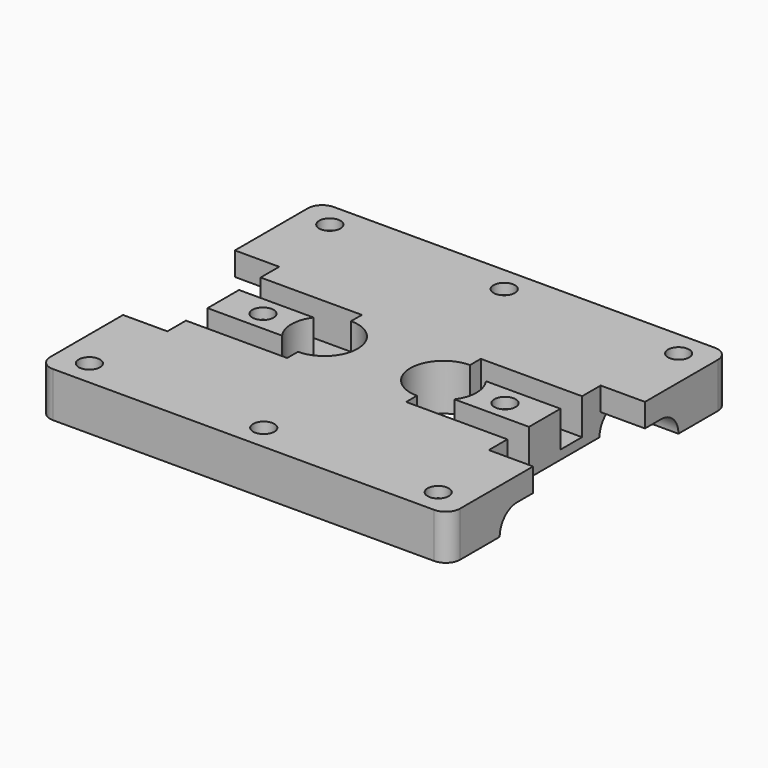
from build123d import *

# Parameters (mm, degrees)
ROD_P_R                                   = 6
ROD_P_DEPTH                               = 115.8
ROD_P_PITCH_ANGLE                         = 90
BEARING_0_R                               = 9.7
BEARING_0_DEPTH                           = 31.4
BEARING_0_PITCH_ANGLE                     = 90
BEARING_1_R                               = 9.7
BEARING_1_DEPTH                           = 31.4
BEARING_1_PITCH_ANGLE                     = 90
BEARING_2_R                               = 9.7
BEARING_2_DEPTH                           = 31.4
BEARING_2_PITCH_ANGLE                     = 90
BEARING_3_R                               = 9.7
BEARING_3_DEPTH                           = 31.4
BEARING_3_PITCH_ANGLE                     = 90
OBJ1_R                        = 9.2
OBJ1_DEPTH                    = 15.3
OBJ2_R                        = 9.2
OBJ2_DEPTH                    = 15.3
M3_BOLT_HOLE_NUT_DEPTH                    = 3.8
M3_BOLT_HOLE_BOLT_HEAD_R                  = 2.95
M3_BOLT_HOLE_BOLT_HEAD_DEPTH              = 4
M3_BOLT_HOLE_BOLT_SUP1AWAY_R              = 2.95
M3_BOLT_HOLE_BOLT_SUP1AWAY_DEPTH          = 3.3
M3_BOLT_HOLE_BOLT_SUP1_DEPTH              = 3.3
M3_BOLT_HOLE_BOLT_SUP1_PLACEMENT_ANGLE    = 30
M3_BOLT_HOLE_BOLT_SUP2_DEPTH              = 3.6
M3_BOLT_HOLE_BOLT_SHANK_R                 = 1.7
M3_BOLT_HOLE_BOLT_SHANK_DEPTH             = 27
M3_BOLT_HOLE_NUT001_DEPTH                 = 3.8
M3_BOLT_HOLE_BOLT_HEAD001_R               = 2.95
M3_BOLT_HOLE_BOLT_HEAD001_DEPTH           = 4
M3_BOLT_HOLE_BOLT_SUP1AWAY001_R           = 2.95
M3_BOLT_HOLE_BOLT_SUP1AWAY001_DEPTH       = 3.3
M3_BOLT_HOLE_BOLT_SUP1001_DEPTH           = 3.3
M3_BOLT_HOLE_BOLT_SUP1001_PLACEMENT_ANGLE = 30
M3_BOLT_HOLE_BOLT_SUP2001_DEPTH           = 3.6
M3_BOLT_HOLE_BOLT_SHANK001_R              = 1.7
M3_BOLT_HOLE_BOLT_SHANK001_DEPTH          = 27
M3_BOLT_HOLE_NUT002_DEPTH                 = 3.8
OBJ3_DEPTH            = 3.1
OBJ4                = 3.1
OBJ5      = 30
OBJ6_DEPTH                = 3.4
M3_BOLT_HOLE_BOLT_HEAD002_R               = 2.95
M3_BOLT_HOLE_BOLT_HEAD002_DEPTH           = 4
M3_BOLT_HOLE_BOLT_SUP1AWAY002_R           = 2.95
M3_BOLT_HOLE_BOLT_SUP1AWAY002_DEPTH       = 3.3
M3_BOLT_HOLE_BOLT_SUP1002_DEPTH           = 3.3
M3_BOLT_HOLE_BOLT_SUP1002_PLACEMENT_ANGLE = 30
M3_BOLT_HOLE_BOLT_SUP2002_DEPTH           = 3.6
M3_BOLT_HOLE_BOLT_SHANK002_R              = 1.7
M3_BOLT_HOLE_BOLT_SHANK002_DEPTH          = 27
M3_BOLT_HOLE_NUT003_DEPTH                 = 3.8
OBJ7_DEPTH         = 3.1
OBJ8             = 3.1
OBJ9   = 30
OBJ10_DEPTH             = 3.4
M3_BOLT_HOLE_BOLT_HEAD003_R               = 2.95
M3_BOLT_HOLE_BOLT_HEAD003_DEPTH           = 4
M3_BOLT_HOLE_BOLT_SUP1AWAY003_R           = 2.95
M3_BOLT_HOLE_BOLT_SUP1AWAY003_DEPTH       = 3.3
M3_BOLT_HOLE_BOLT_SUP1003_DEPTH           = 3.3
M3_BOLT_HOLE_BOLT_SUP1003_PLACEMENT_ANGLE = 30
M3_BOLT_HOLE_BOLT_SUP2003_DEPTH           = 3.6
M3_BOLT_HOLE_BOLT_SHANK003_R              = 1.7
M3_BOLT_HOLE_BOLT_SHANK003_DEPTH          = 27
M3_BOLT_HOLE_NUT004_DEPTH                 = 3.8
OBJ11_DEPTH         = 3.1
OBJ12             = 3.1
OBJ13   = 30
OBJ14_DEPTH             = 3.4
M3_BOLT_HOLE_BOLT_HEAD004_R               = 2.95
M3_BOLT_HOLE_BOLT_HEAD004_DEPTH           = 4
M3_BOLT_HOLE_BOLT_SUP1AWAY004_R           = 2.95
M3_BOLT_HOLE_BOLT_SUP1AWAY004_DEPTH       = 3.3
M3_BOLT_HOLE_BOLT_SUP1004_DEPTH           = 3.3
M3_BOLT_HOLE_BOLT_SUP1004_PLACEMENT_ANGLE = 30
M3_BOLT_HOLE_BOLT_SUP2004_DEPTH           = 3.6
M3_BOLT_HOLE_BOLT_SHANK004_R              = 1.7
M3_BOLT_HOLE_BOLT_SHANK004_DEPTH          = 27
M3_BOLT_HOLE_NUT005_DEPTH                 = 3.8
OBJ15_DEPTH         = 3.1
OBJ16             = 3.1
OBJ17   = 30
OBJ18_DEPTH             = 3.4
M3_BOLT_HOLE_BOLT_HEAD005_R               = 2.95
M3_BOLT_HOLE_BOLT_HEAD005_DEPTH           = 4
M3_BOLT_HOLE_BOLT_SUP1AWAY005_R           = 2.95
M3_BOLT_HOLE_BOLT_SUP1AWAY005_DEPTH       = 3.3
M3_BOLT_HOLE_BOLT_SUP1005_DEPTH           = 3.3
M3_BOLT_HOLE_BOLT_SUP1005_PLACEMENT_ANGLE = 30
M3_BOLT_HOLE_BOLT_SUP2005_DEPTH           = 3.6
M3_BOLT_HOLE_BOLT_SHANK005_R              = 1.7
M3_BOLT_HOLE_BOLT_SHANK005_DEPTH          = 27
M3_BOLT_HOLE_NUT006_DEPTH                 = 3.8
OBJ19_DEPTH         = 3.1
OBJ20             = 3.1
OBJ21   = 30
OBJ22_DEPTH             = 3.4
M3_BOLT_HOLE_BOLT_HEAD006_R               = 2.95
M3_BOLT_HOLE_BOLT_HEAD006_DEPTH           = 4
M3_BOLT_HOLE_BOLT_SUP1AWAY006_R           = 2.95
M3_BOLT_HOLE_BOLT_SUP1AWAY006_DEPTH       = 3.3
M3_BOLT_HOLE_BOLT_SUP1006_DEPTH           = 3.3
M3_BOLT_HOLE_BOLT_SUP1006_PLACEMENT_ANGLE = 30
M3_BOLT_HOLE_BOLT_SUP2006_DEPTH           = 3.6
M3_BOLT_HOLE_BOLT_SHANK006_R              = 1.7
M3_BOLT_HOLE_BOLT_SHANK006_DEPTH          = 27
M3_BOLT_HOLE_NUT007_DEPTH                 = 3.8
OBJ23_DEPTH         = 3.1
OBJ24             = 3.1
OBJ25   = 30
OBJ26_DEPTH             = 3.4
M3_BOLT_HOLE_BOLT_HEAD007_R               = 2.95
M3_BOLT_HOLE_BOLT_HEAD007_DEPTH           = 4
M3_BOLT_HOLE_BOLT_SUP1AWAY007_R           = 2.95
M3_BOLT_HOLE_BOLT_SUP1AWAY007_DEPTH       = 3.3
M3_BOLT_HOLE_BOLT_SUP1007_DEPTH           = 3.3
M3_BOLT_HOLE_BOLT_SUP1007_PLACEMENT_ANGLE = 30
M3_BOLT_HOLE_BOLT_SUP2007_DEPTH           = 3.6
M3_BOLT_HOLE_BOLT_SHANK007_R              = 1.7
M3_BOLT_HOLE_BOLT_SHANK007_DEPTH          = 27
OBJ27_W                       = 41
OBJ27_H                       = 50
OBJ27_DEPTH                   = 6
OBJ28                             = 41
OBJ29                             = 38.8
OBJ30                         = 25
CLONE_PLACEMENT_ANGLE                     = 180
OBJ31_W                    = 29.1
OBJ31_H                    = 7.5
OBJ31_DEPTH                = 11
OBJ32                    = 29.1
OBJ33                    = 7.5
OBJ34                = 11
CLONE001_PLACEMENT_ANGLE                  = 180
ROD_N_R                                   = 6
ROD_N_DEPTH                               = 115.8
ROD_N_PITCH_ANGLE                         = 90
OBJ35_W                         = 79
OBJ35_H                         = 23.6
OBJ35_DEPTH                     = 1.4
OBJ36                              = 113.8
OBJ37                              = 97.4
OBJ38                          = 12.5
OBJ39                         = 4


with BuildPart() as rod_p:
    # rod_p → rod_p (new body)
    with BuildSketch(Plane.XY):
        Circle(ROD_P_R)
    extrude(amount=ROD_P_DEPTH)


with BuildPart() as rod_p_1:
    # rod_p pitch: moved
    add(rod_p.part.rotate(Axis((0, 0, 0), (0, 1, 0)), ROD_P_PITCH_ANGLE))


with BuildPart() as rod_p_2:
    # rod_p placement: moved
    add(rod_p_1.part.moved(Location((-57.9, 25, 12.5))))


with BuildPart() as bearing_0_body:
    # bearing_0 → bearing_0 (new body)
    with BuildSketch(Plane.XY):
        Circle(BEARING_0_R)
    extrude(amount=BEARING_0_DEPTH)


with BuildPart() as bearing_0_body_1:
    # bearing_0 pitch: moved
    add(bearing_0_body.part.rotate(Axis((0, 0, 0), (0, 1, 0)), BEARING_0_PITCH_ANGLE))


with BuildPart() as bearing_0_body_2:
    # bearing_0 placement: moved
    add(bearing_0_body_1.part.moved(Location((8.5, 25, 12.5))))


with BuildPart() as bearing_1_body:
    # bearing_1 → bearing_1 (new body)
    with BuildSketch(Plane.XY):
        Circle(BEARING_1_R)
    extrude(amount=BEARING_1_DEPTH)


with BuildPart() as bearing_1_body_1:
    # bearing_1 pitch: moved
    add(bearing_1_body.part.rotate(Axis((0, 0, 0), (0, 1, 0)), BEARING_1_PITCH_ANGLE))


with BuildPart() as bearing_1_body_2:
    # bearing_1 placement: moved
    add(bearing_1_body_1.part.moved(Location((-39.9, 25, 12.5))))


with BuildPart() as bearing_2_body:
    # bearing_2 → bearing_2 (new body)
    with BuildSketch(Plane.XY):
        Circle(BEARING_2_R)
    extrude(amount=BEARING_2_DEPTH)


with BuildPart() as bearing_2_body_1:
    # bearing_2 pitch: moved
    add(bearing_2_body.part.rotate(Axis((0, 0, 0), (0, 1, 0)), BEARING_2_PITCH_ANGLE))


with BuildPart() as bearing_2_body_2:
    # bearing_2 placement: moved
    add(bearing_2_body_1.part.moved(Location((8.5, -25, 12.5))))


with BuildPart() as bearing_3_body:
    # bearing_3 → bearing_3 (new body)
    with BuildSketch(Plane.XY):
        Circle(BEARING_3_R)
    extrude(amount=BEARING_3_DEPTH)


with BuildPart() as bearing_3_body_1:
    # bearing_3 pitch: moved
    add(bearing_3_body.part.rotate(Axis((0, 0, 0), (0, 1, 0)), BEARING_3_PITCH_ANGLE))


with BuildPart() as bearing_3_body_2:
    # bearing_3 placement: moved
    add(bearing_3_body_1.part.moved(Location((-39.9, -25, 12.5))))


with BuildPart() as obj1:
    # obj1 → obj1 (new body)
    with BuildSketch(Plane(origin=(16.5, 0, 10.7), x_dir=(1, 0, 0), z_dir=(0, 0, 1))):
        Circle(OBJ1_R)
    extrude(amount=OBJ1_DEPTH)


with BuildPart() as obj2:
    # obj2 → obj2 (new body)
    with BuildSketch(Plane(origin=(-16.5, 0, 10.7), x_dir=(1, 0, 0), z_dir=(0, 0, 1))):
        Circle(OBJ2_R)
    extrude(amount=OBJ2_DEPTH)


with BuildPart() as m3_bolt_hole_nut:
    # m3_bolt_hole_nut → m3_bolt_hole_nut (new body)
    with BuildSketch(Plane.XY.offset(-1)):
        Polygon((3.605, 0), (1.8025, 3.122022), (-1.8025, 3.122022), (-3.605, 0), (-1.8025, -3.122022), (1.8025, -3.122022), align=None)
    extrude(amount=M3_BOLT_HOLE_NUT_DEPTH)


with BuildPart() as m3_bolt_hole_bolt_head:
    # m3_bolt_hole_bolt_head → m3_bolt_hole_bolt_head (new body)
    with BuildSketch(Plane.XY.offset(22)):
        Circle(M3_BOLT_HOLE_BOLT_HEAD_R)
    extrude(amount=M3_BOLT_HOLE_BOLT_HEAD_DEPTH)


with BuildPart() as m3_bolt_hole_bolt_sup1away:
    # m3_bolt_hole_bolt_sup1away → m3_bolt_hole_bolt_sup1away (new body)
    with BuildSketch(Plane.XY.offset(21.7)):
        Circle(M3_BOLT_HOLE_BOLT_SUP1AWAY_R)
    extrude(amount=M3_BOLT_HOLE_BOLT_SUP1AWAY_DEPTH)


with BuildPart() as sup1cut001:
    # m3_bolt_hole_bolt_sup1 → m3_bolt_hole_bolt_sup1 (new body)
    with BuildSketch(Plane.XY):
        Polygon((3.4, 0), (-1.7, 2.944486), (-1.7, -2.944486), align=None)
    extrude(amount=M3_BOLT_HOLE_BOLT_SUP1_DEPTH)


with BuildPart() as sup1cut001_1:
    # m3_bolt_hole_bolt_sup1 placement: moved
    add(sup1cut001.part.moved(Location((0, 0, 21.7))).rotate(Axis((0, 0, 21.7), (0, 0, 1)), M3_BOLT_HOLE_BOLT_SUP1_PLACEMENT_ANGLE))

    # sup1cut001: intersect m3_bolt_hole_bolt_sup1away
    add(m3_bolt_hole_bolt_sup1away.part, mode=Mode.INTERSECT)


with BuildPart() as m3_bolt_hole_bolt_sup2:
    # m3_bolt_hole_bolt_sup2 → m3_bolt_hole_bolt_sup2 (new body)
    with BuildSketch(Plane.XY.offset(21.4)):
        Polygon((1.955, 0), (0.9775, 1.69308), (-0.9775, 1.69308), (-1.955, 0), (-0.9775, -1.69308), (0.9775, -1.69308), align=None)
    extrude(amount=M3_BOLT_HOLE_BOLT_SUP2_DEPTH)


with BuildPart() as boltnut001:
    # m3_bolt_hole_bolt_shank → m3_bolt_hole_bolt_shank (new body)
    with BuildSketch(Plane.XY.offset(-1)):
        Circle(M3_BOLT_HOLE_BOLT_SHANK_R)
    extrude(amount=M3_BOLT_HOLE_BOLT_SHANK_DEPTH)

    # m3_bolt_hole_bolt: union m3_bolt_hole_bolt_head, sup1cut001, m3_bolt_hole_bolt_sup2
    add(m3_bolt_hole_bolt_head.part)
    add(sup1cut001_1.part)
    add(m3_bolt_hole_bolt_sup2.part)

    # boltnut001: union m3_bolt_hole_nut
    add(m3_bolt_hole_nut.part)


with BuildPart() as boltnut001_1:
    # boltnut001 placement: moved
    add(boltnut001.part.moved(Location((33.58, 0, 0))))


with BuildPart() as m3_bolt_hole_nut001:
    # m3_bolt_hole_nut001 → m3_bolt_hole_nut001 (new body)
    with BuildSketch(Plane.XY.offset(-1)):
        Polygon((3.605, 0), (1.8025, 3.122022), (-1.8025, 3.122022), (-3.605, 0), (-1.8025, -3.122022), (1.8025, -3.122022), align=None)
    extrude(amount=M3_BOLT_HOLE_NUT001_DEPTH)


with BuildPart() as m3_bolt_hole_bolt_head001:
    # m3_bolt_hole_bolt_head001 → m3_bolt_hole_bolt_head001 (new body)
    with BuildSketch(Plane.XY.offset(22)):
        Circle(M3_BOLT_HOLE_BOLT_HEAD001_R)
    extrude(amount=M3_BOLT_HOLE_BOLT_HEAD001_DEPTH)


with BuildPart() as m3_bolt_hole_bolt_sup1away001:
    # m3_bolt_hole_bolt_sup1away001 → m3_bolt_hole_bolt_sup1away001 (new body)
    with BuildSketch(Plane.XY.offset(21.7)):
        Circle(M3_BOLT_HOLE_BOLT_SUP1AWAY001_R)
    extrude(amount=M3_BOLT_HOLE_BOLT_SUP1AWAY001_DEPTH)


with BuildPart() as sup1cut002:
    # m3_bolt_hole_bolt_sup1001 → m3_bolt_hole_bolt_sup1001 (new body)
    with BuildSketch(Plane.XY):
        Polygon((3.4, 0), (-1.7, 2.944486), (-1.7, -2.944486), align=None)
    extrude(amount=M3_BOLT_HOLE_BOLT_SUP1001_DEPTH)


with BuildPart() as sup1cut002_1:
    # m3_bolt_hole_bolt_sup1001 placement: moved
    add(sup1cut002.part.moved(Location((0, 0, 21.7))).rotate(Axis((0, 0, 21.7), (0, 0, 1)), M3_BOLT_HOLE_BOLT_SUP1001_PLACEMENT_ANGLE))

    # sup1cut002: intersect m3_bolt_hole_bolt_sup1away001
    add(m3_bolt_hole_bolt_sup1away001.part, mode=Mode.INTERSECT)


with BuildPart() as m3_bolt_hole_bolt_sup2001:
    # m3_bolt_hole_bolt_sup2001 → m3_bolt_hole_bolt_sup2001 (new body)
    with BuildSketch(Plane.XY.offset(21.4)):
        Polygon((1.955, 0), (0.9775, 1.69308), (-0.9775, 1.69308), (-1.955, 0), (-0.9775, -1.69308), (0.9775, -1.69308), align=None)
    extrude(amount=M3_BOLT_HOLE_BOLT_SUP2001_DEPTH)


with BuildPart() as boltnut002:
    # m3_bolt_hole_bolt_shank001 → m3_bolt_hole_bolt_shank001 (new body)
    with BuildSketch(Plane.XY.offset(-1)):
        Circle(M3_BOLT_HOLE_BOLT_SHANK001_R)
    extrude(amount=M3_BOLT_HOLE_BOLT_SHANK001_DEPTH)

    # m3_bolt_hole_bolt001: union m3_bolt_hole_bolt_head001, sup1cut002, m3_bolt_hole_bolt_sup2001
    add(m3_bolt_hole_bolt_head001.part)
    add(sup1cut002_1.part)
    add(m3_bolt_hole_bolt_sup2001.part)

    # boltnut002: union m3_bolt_hole_nut001
    add(m3_bolt_hole_nut001.part)


with BuildPart() as boltnut002_1:
    # boltnut002 placement: moved
    add(boltnut002.part.moved(Location((-33.58, 0, 0))))


with BuildPart() as m3_bolt_hole_nut002:
    # m3_bolt_hole_nut002 → m3_bolt_hole_nut002 (new body)
    with BuildSketch(Plane.XY.offset(-1)):
        Polygon((3.605, 0), (1.8025, 3.122022), (-1.8025, 3.122022), (-3.605, 0), (-1.8025, -3.122022), (1.8025, -3.122022), align=None)
    extrude(amount=M3_BOLT_HOLE_NUT002_DEPTH)


with BuildPart() as obj3:
    # obj3 → obj3 (new body)
    with BuildSketch(Plane.XY):
        Polygon((3.605, 0), (1.8025, 3.122022), (-1.8025, 3.122022), (-3.605, 0), (-1.8025, -3.122022), (1.8025, -3.122022), align=None)
    extrude(amount=OBJ3_DEPTH)


with BuildPart() as obj40:
    with BuildSketch(Plane.XY):
        Polygon((3.4, 0), (-1.7, 2.944486), (-1.7, -2.944486), align=None)
    extrude(amount=OBJ4)


with BuildPart() as obj40_1:
    add(obj40.part.rotate(Axis((0, 0, 0), (0, 0, 1)), OBJ5))

    # obj40: intersect obj3
    add(obj3.part, mode=Mode.INTERSECT)


with BuildPart() as obj6:
    # obj6 → obj6 (new body)
    with BuildSketch(Plane.XY):
        Polygon((1.955, 0), (0.9775, 1.69308), (-0.9775, 1.69308), (-1.955, 0), (-0.9775, -1.69308), (0.9775, -1.69308), align=None)
    extrude(amount=OBJ6_DEPTH)


with BuildPart() as m3_bolt_hole_bolt_head002:
    # m3_bolt_hole_bolt_head002 → m3_bolt_hole_bolt_head002 (new body)
    with BuildSketch(Plane.XY.offset(22)):
        Circle(M3_BOLT_HOLE_BOLT_HEAD002_R)
    extrude(amount=M3_BOLT_HOLE_BOLT_HEAD002_DEPTH)


with BuildPart() as m3_bolt_hole_bolt_sup1away002:
    # m3_bolt_hole_bolt_sup1away002 → m3_bolt_hole_bolt_sup1away002 (new body)
    with BuildSketch(Plane.XY.offset(21.7)):
        Circle(M3_BOLT_HOLE_BOLT_SUP1AWAY002_R)
    extrude(amount=M3_BOLT_HOLE_BOLT_SUP1AWAY002_DEPTH)


with BuildPart() as sup1cut003:
    # m3_bolt_hole_bolt_sup1002 → m3_bolt_hole_bolt_sup1002 (new body)
    with BuildSketch(Plane.XY):
        Polygon((3.4, 0), (-1.7, 2.944486), (-1.7, -2.944486), align=None)
    extrude(amount=M3_BOLT_HOLE_BOLT_SUP1002_DEPTH)


with BuildPart() as sup1cut003_1:
    # m3_bolt_hole_bolt_sup1002 placement: moved
    add(sup1cut003.part.moved(Location((0, 0, 21.7))).rotate(Axis((0, 0, 21.7), (0, 0, 1)), M3_BOLT_HOLE_BOLT_SUP1002_PLACEMENT_ANGLE))

    # sup1cut003: intersect m3_bolt_hole_bolt_sup1away002
    add(m3_bolt_hole_bolt_sup1away002.part, mode=Mode.INTERSECT)


with BuildPart() as m3_bolt_hole_bolt_sup2002:
    # m3_bolt_hole_bolt_sup2002 → m3_bolt_hole_bolt_sup2002 (new body)
    with BuildSketch(Plane.XY.offset(21.4)):
        Polygon((1.955, 0), (0.9775, 1.69308), (-0.9775, 1.69308), (-1.955, 0), (-0.9775, -1.69308), (0.9775, -1.69308), align=None)
    extrude(amount=M3_BOLT_HOLE_BOLT_SUP2002_DEPTH)


with BuildPart() as boltnut003:
    # m3_bolt_hole_bolt_shank002 → m3_bolt_hole_bolt_shank002 (new body)
    with BuildSketch(Plane.XY.offset(-1)):
        Circle(M3_BOLT_HOLE_BOLT_SHANK002_R)
    extrude(amount=M3_BOLT_HOLE_BOLT_SHANK002_DEPTH)

    # m3_bolt_hole_bolt002: union m3_bolt_hole_bolt_head002, sup1cut003, m3_bolt_hole_bolt_sup2002
    add(m3_bolt_hole_bolt_head002.part)
    add(sup1cut003_1.part)
    add(m3_bolt_hole_bolt_sup2002.part)

    # boltnut003: union m3_bolt_hole_nut002, obj40, obj6
    add(m3_bolt_hole_nut002.part)
    add(obj40_1.part)
    add(obj6.part)


with BuildPart() as boltnut003_1:
    # boltnut003 placement: moved
    add(boltnut003.part.moved(Location((48.4, 41.7, 0))))


with BuildPart() as m3_bolt_hole_nut003:
    # m3_bolt_hole_nut003 → m3_bolt_hole_nut003 (new body)
    with BuildSketch(Plane.XY.offset(-1)):
        Polygon((3.605, 0), (1.8025, 3.122022), (-1.8025, 3.122022), (-3.605, 0), (-1.8025, -3.122022), (1.8025, -3.122022), align=None)
    extrude(amount=M3_BOLT_HOLE_NUT003_DEPTH)


with BuildPart() as obj7:
    # obj7 → obj7 (new body)
    with BuildSketch(Plane.XY):
        Polygon((3.605, 0), (1.8025, 3.122022), (-1.8025, 3.122022), (-3.605, 0), (-1.8025, -3.122022), (1.8025, -3.122022), align=None)
    extrude(amount=OBJ7_DEPTH)


with BuildPart() as obj41:
    with BuildSketch(Plane.XY):
        Polygon((3.4, 0), (-1.7, 2.944486), (-1.7, -2.944486), align=None)
    extrude(amount=OBJ8)


with BuildPart() as obj41_1:
    add(obj41.part.rotate(Axis((0, 0, 0), (0, 0, 1)), OBJ9))

    # obj41: intersect obj7
    add(obj7.part, mode=Mode.INTERSECT)


with BuildPart() as obj10:
    # obj10 → obj10 (new body)
    with BuildSketch(Plane.XY):
        Polygon((1.955, 0), (0.9775, 1.69308), (-0.9775, 1.69308), (-1.955, 0), (-0.9775, -1.69308), (0.9775, -1.69308), align=None)
    extrude(amount=OBJ10_DEPTH)


with BuildPart() as m3_bolt_hole_bolt_head003:
    # m3_bolt_hole_bolt_head003 → m3_bolt_hole_bolt_head003 (new body)
    with BuildSketch(Plane.XY.offset(22)):
        Circle(M3_BOLT_HOLE_BOLT_HEAD003_R)
    extrude(amount=M3_BOLT_HOLE_BOLT_HEAD003_DEPTH)


with BuildPart() as m3_bolt_hole_bolt_sup1away003:
    # m3_bolt_hole_bolt_sup1away003 → m3_bolt_hole_bolt_sup1away003 (new body)
    with BuildSketch(Plane.XY.offset(21.7)):
        Circle(M3_BOLT_HOLE_BOLT_SUP1AWAY003_R)
    extrude(amount=M3_BOLT_HOLE_BOLT_SUP1AWAY003_DEPTH)


with BuildPart() as sup1cut004:
    # m3_bolt_hole_bolt_sup1003 → m3_bolt_hole_bolt_sup1003 (new body)
    with BuildSketch(Plane.XY):
        Polygon((3.4, 0), (-1.7, 2.944486), (-1.7, -2.944486), align=None)
    extrude(amount=M3_BOLT_HOLE_BOLT_SUP1003_DEPTH)


with BuildPart() as sup1cut004_1:
    # m3_bolt_hole_bolt_sup1003 placement: moved
    add(sup1cut004.part.moved(Location((0, 0, 21.7))).rotate(Axis((0, 0, 21.7), (0, 0, 1)), M3_BOLT_HOLE_BOLT_SUP1003_PLACEMENT_ANGLE))

    # sup1cut004: intersect m3_bolt_hole_bolt_sup1away003
    add(m3_bolt_hole_bolt_sup1away003.part, mode=Mode.INTERSECT)


with BuildPart() as m3_bolt_hole_bolt_sup2003:
    # m3_bolt_hole_bolt_sup2003 → m3_bolt_hole_bolt_sup2003 (new body)
    with BuildSketch(Plane.XY.offset(21.4)):
        Polygon((1.955, 0), (0.9775, 1.69308), (-0.9775, 1.69308), (-1.955, 0), (-0.9775, -1.69308), (0.9775, -1.69308), align=None)
    extrude(amount=M3_BOLT_HOLE_BOLT_SUP2003_DEPTH)


with BuildPart() as boltnut004:
    # m3_bolt_hole_bolt_shank003 → m3_bolt_hole_bolt_shank003 (new body)
    with BuildSketch(Plane.XY.offset(-1)):
        Circle(M3_BOLT_HOLE_BOLT_SHANK003_R)
    extrude(amount=M3_BOLT_HOLE_BOLT_SHANK003_DEPTH)

    # m3_bolt_hole_bolt003: union m3_bolt_hole_bolt_head003, sup1cut004, m3_bolt_hole_bolt_sup2003
    add(m3_bolt_hole_bolt_head003.part)
    add(sup1cut004_1.part)
    add(m3_bolt_hole_bolt_sup2003.part)

    # boltnut004: union m3_bolt_hole_nut003, obj41, obj10
    add(m3_bolt_hole_nut003.part)
    add(obj41_1.part)
    add(obj10.part)


with BuildPart() as boltnut004_1:
    # boltnut004 placement: moved
    add(boltnut004.part.moved(Location((0, 41.7, 0))))


with BuildPart() as m3_bolt_hole_nut004:
    # m3_bolt_hole_nut004 → m3_bolt_hole_nut004 (new body)
    with BuildSketch(Plane.XY.offset(-1)):
        Polygon((3.605, 0), (1.8025, 3.122022), (-1.8025, 3.122022), (-3.605, 0), (-1.8025, -3.122022), (1.8025, -3.122022), align=None)
    extrude(amount=M3_BOLT_HOLE_NUT004_DEPTH)


with BuildPart() as obj11:
    # obj11 → obj11 (new body)
    with BuildSketch(Plane.XY):
        Polygon((3.605, 0), (1.8025, 3.122022), (-1.8025, 3.122022), (-3.605, 0), (-1.8025, -3.122022), (1.8025, -3.122022), align=None)
    extrude(amount=OBJ11_DEPTH)


with BuildPart() as obj42:
    with BuildSketch(Plane.XY):
        Polygon((3.4, 0), (-1.7, 2.944486), (-1.7, -2.944486), align=None)
    extrude(amount=OBJ12)


with BuildPart() as obj42_1:
    add(obj42.part.rotate(Axis((0, 0, 0), (0, 0, 1)), OBJ13))

    # obj42: intersect obj11
    add(obj11.part, mode=Mode.INTERSECT)


with BuildPart() as obj14:
    # obj14 → obj14 (new body)
    with BuildSketch(Plane.XY):
        Polygon((1.955, 0), (0.9775, 1.69308), (-0.9775, 1.69308), (-1.955, 0), (-0.9775, -1.69308), (0.9775, -1.69308), align=None)
    extrude(amount=OBJ14_DEPTH)


with BuildPart() as m3_bolt_hole_bolt_head004:
    # m3_bolt_hole_bolt_head004 → m3_bolt_hole_bolt_head004 (new body)
    with BuildSketch(Plane.XY.offset(22)):
        Circle(M3_BOLT_HOLE_BOLT_HEAD004_R)
    extrude(amount=M3_BOLT_HOLE_BOLT_HEAD004_DEPTH)


with BuildPart() as m3_bolt_hole_bolt_sup1away004:
    # m3_bolt_hole_bolt_sup1away004 → m3_bolt_hole_bolt_sup1away004 (new body)
    with BuildSketch(Plane.XY.offset(21.7)):
        Circle(M3_BOLT_HOLE_BOLT_SUP1AWAY004_R)
    extrude(amount=M3_BOLT_HOLE_BOLT_SUP1AWAY004_DEPTH)


with BuildPart() as sup1cut005:
    # m3_bolt_hole_bolt_sup1004 → m3_bolt_hole_bolt_sup1004 (new body)
    with BuildSketch(Plane.XY):
        Polygon((3.4, 0), (-1.7, 2.944486), (-1.7, -2.944486), align=None)
    extrude(amount=M3_BOLT_HOLE_BOLT_SUP1004_DEPTH)


with BuildPart() as sup1cut005_1:
    # m3_bolt_hole_bolt_sup1004 placement: moved
    add(sup1cut005.part.moved(Location((0, 0, 21.7))).rotate(Axis((0, 0, 21.7), (0, 0, 1)), M3_BOLT_HOLE_BOLT_SUP1004_PLACEMENT_ANGLE))

    # sup1cut005: intersect m3_bolt_hole_bolt_sup1away004
    add(m3_bolt_hole_bolt_sup1away004.part, mode=Mode.INTERSECT)


with BuildPart() as m3_bolt_hole_bolt_sup2004:
    # m3_bolt_hole_bolt_sup2004 → m3_bolt_hole_bolt_sup2004 (new body)
    with BuildSketch(Plane.XY.offset(21.4)):
        Polygon((1.955, 0), (0.9775, 1.69308), (-0.9775, 1.69308), (-1.955, 0), (-0.9775, -1.69308), (0.9775, -1.69308), align=None)
    extrude(amount=M3_BOLT_HOLE_BOLT_SUP2004_DEPTH)


with BuildPart() as boltnut005:
    # m3_bolt_hole_bolt_shank004 → m3_bolt_hole_bolt_shank004 (new body)
    with BuildSketch(Plane.XY.offset(-1)):
        Circle(M3_BOLT_HOLE_BOLT_SHANK004_R)
    extrude(amount=M3_BOLT_HOLE_BOLT_SHANK004_DEPTH)

    # m3_bolt_hole_bolt004: union m3_bolt_hole_bolt_head004, sup1cut005, m3_bolt_hole_bolt_sup2004
    add(m3_bolt_hole_bolt_head004.part)
    add(sup1cut005_1.part)
    add(m3_bolt_hole_bolt_sup2004.part)

    # boltnut005: union m3_bolt_hole_nut004, obj42, obj14
    add(m3_bolt_hole_nut004.part)
    add(obj42_1.part)
    add(obj14.part)


with BuildPart() as boltnut005_1:
    # boltnut005 placement: moved
    add(boltnut005.part.moved(Location((-48.4, 41.7, 0))))


with BuildPart() as m3_bolt_hole_nut005:
    # m3_bolt_hole_nut005 → m3_bolt_hole_nut005 (new body)
    with BuildSketch(Plane.XY.offset(-1)):
        Polygon((3.605, 0), (1.8025, 3.122022), (-1.8025, 3.122022), (-3.605, 0), (-1.8025, -3.122022), (1.8025, -3.122022), align=None)
    extrude(amount=M3_BOLT_HOLE_NUT005_DEPTH)


with BuildPart() as obj15:
    # obj15 → obj15 (new body)
    with BuildSketch(Plane.XY):
        Polygon((3.605, 0), (1.8025, 3.122022), (-1.8025, 3.122022), (-3.605, 0), (-1.8025, -3.122022), (1.8025, -3.122022), align=None)
    extrude(amount=OBJ15_DEPTH)


with BuildPart() as obj43:
    with BuildSketch(Plane.XY):
        Polygon((3.4, 0), (-1.7, 2.944486), (-1.7, -2.944486), align=None)
    extrude(amount=OBJ16)


with BuildPart() as obj43_1:
    add(obj43.part.rotate(Axis((0, 0, 0), (0, 0, 1)), OBJ17))

    # obj43: intersect obj15
    add(obj15.part, mode=Mode.INTERSECT)


with BuildPart() as obj18:
    # obj18 → obj18 (new body)
    with BuildSketch(Plane.XY):
        Polygon((1.955, 0), (0.9775, 1.69308), (-0.9775, 1.69308), (-1.955, 0), (-0.9775, -1.69308), (0.9775, -1.69308), align=None)
    extrude(amount=OBJ18_DEPTH)


with BuildPart() as m3_bolt_hole_bolt_head005:
    # m3_bolt_hole_bolt_head005 → m3_bolt_hole_bolt_head005 (new body)
    with BuildSketch(Plane.XY.offset(22)):
        Circle(M3_BOLT_HOLE_BOLT_HEAD005_R)
    extrude(amount=M3_BOLT_HOLE_BOLT_HEAD005_DEPTH)


with BuildPart() as m3_bolt_hole_bolt_sup1away005:
    # m3_bolt_hole_bolt_sup1away005 → m3_bolt_hole_bolt_sup1away005 (new body)
    with BuildSketch(Plane.XY.offset(21.7)):
        Circle(M3_BOLT_HOLE_BOLT_SUP1AWAY005_R)
    extrude(amount=M3_BOLT_HOLE_BOLT_SUP1AWAY005_DEPTH)


with BuildPart() as sup1cut006:
    # m3_bolt_hole_bolt_sup1005 → m3_bolt_hole_bolt_sup1005 (new body)
    with BuildSketch(Plane.XY):
        Polygon((3.4, 0), (-1.7, 2.944486), (-1.7, -2.944486), align=None)
    extrude(amount=M3_BOLT_HOLE_BOLT_SUP1005_DEPTH)


with BuildPart() as sup1cut006_1:
    # m3_bolt_hole_bolt_sup1005 placement: moved
    add(sup1cut006.part.moved(Location((0, 0, 21.7))).rotate(Axis((0, 0, 21.7), (0, 0, 1)), M3_BOLT_HOLE_BOLT_SUP1005_PLACEMENT_ANGLE))

    # sup1cut006: intersect m3_bolt_hole_bolt_sup1away005
    add(m3_bolt_hole_bolt_sup1away005.part, mode=Mode.INTERSECT)


with BuildPart() as m3_bolt_hole_bolt_sup2005:
    # m3_bolt_hole_bolt_sup2005 → m3_bolt_hole_bolt_sup2005 (new body)
    with BuildSketch(Plane.XY.offset(21.4)):
        Polygon((1.955, 0), (0.9775, 1.69308), (-0.9775, 1.69308), (-1.955, 0), (-0.9775, -1.69308), (0.9775, -1.69308), align=None)
    extrude(amount=M3_BOLT_HOLE_BOLT_SUP2005_DEPTH)


with BuildPart() as boltnut006:
    # m3_bolt_hole_bolt_shank005 → m3_bolt_hole_bolt_shank005 (new body)
    with BuildSketch(Plane.XY.offset(-1)):
        Circle(M3_BOLT_HOLE_BOLT_SHANK005_R)
    extrude(amount=M3_BOLT_HOLE_BOLT_SHANK005_DEPTH)

    # m3_bolt_hole_bolt005: union m3_bolt_hole_bolt_head005, sup1cut006, m3_bolt_hole_bolt_sup2005
    add(m3_bolt_hole_bolt_head005.part)
    add(sup1cut006_1.part)
    add(m3_bolt_hole_bolt_sup2005.part)

    # boltnut006: union m3_bolt_hole_nut005, obj43, obj18
    add(m3_bolt_hole_nut005.part)
    add(obj43_1.part)
    add(obj18.part)


with BuildPart() as boltnut006_1:
    # boltnut006 placement: moved
    add(boltnut006.part.moved(Location((48.4, -41.7, 0))))


with BuildPart() as m3_bolt_hole_nut006:
    # m3_bolt_hole_nut006 → m3_bolt_hole_nut006 (new body)
    with BuildSketch(Plane.XY.offset(-1)):
        Polygon((3.605, 0), (1.8025, 3.122022), (-1.8025, 3.122022), (-3.605, 0), (-1.8025, -3.122022), (1.8025, -3.122022), align=None)
    extrude(amount=M3_BOLT_HOLE_NUT006_DEPTH)


with BuildPart() as obj19:
    # obj19 → obj19 (new body)
    with BuildSketch(Plane.XY):
        Polygon((3.605, 0), (1.8025, 3.122022), (-1.8025, 3.122022), (-3.605, 0), (-1.8025, -3.122022), (1.8025, -3.122022), align=None)
    extrude(amount=OBJ19_DEPTH)


with BuildPart() as obj44:
    with BuildSketch(Plane.XY):
        Polygon((3.4, 0), (-1.7, 2.944486), (-1.7, -2.944486), align=None)
    extrude(amount=OBJ20)


with BuildPart() as obj44_1:
    add(obj44.part.rotate(Axis((0, 0, 0), (0, 0, 1)), OBJ21))

    # obj44: intersect obj19
    add(obj19.part, mode=Mode.INTERSECT)


with BuildPart() as obj22:
    # obj22 → obj22 (new body)
    with BuildSketch(Plane.XY):
        Polygon((1.955, 0), (0.9775, 1.69308), (-0.9775, 1.69308), (-1.955, 0), (-0.9775, -1.69308), (0.9775, -1.69308), align=None)
    extrude(amount=OBJ22_DEPTH)


with BuildPart() as m3_bolt_hole_bolt_head006:
    # m3_bolt_hole_bolt_head006 → m3_bolt_hole_bolt_head006 (new body)
    with BuildSketch(Plane.XY.offset(22)):
        Circle(M3_BOLT_HOLE_BOLT_HEAD006_R)
    extrude(amount=M3_BOLT_HOLE_BOLT_HEAD006_DEPTH)


with BuildPart() as m3_bolt_hole_bolt_sup1away006:
    # m3_bolt_hole_bolt_sup1away006 → m3_bolt_hole_bolt_sup1away006 (new body)
    with BuildSketch(Plane.XY.offset(21.7)):
        Circle(M3_BOLT_HOLE_BOLT_SUP1AWAY006_R)
    extrude(amount=M3_BOLT_HOLE_BOLT_SUP1AWAY006_DEPTH)


with BuildPart() as sup1cut007:
    # m3_bolt_hole_bolt_sup1006 → m3_bolt_hole_bolt_sup1006 (new body)
    with BuildSketch(Plane.XY):
        Polygon((3.4, 0), (-1.7, 2.944486), (-1.7, -2.944486), align=None)
    extrude(amount=M3_BOLT_HOLE_BOLT_SUP1006_DEPTH)


with BuildPart() as sup1cut007_1:
    # m3_bolt_hole_bolt_sup1006 placement: moved
    add(sup1cut007.part.moved(Location((0, 0, 21.7))).rotate(Axis((0, 0, 21.7), (0, 0, 1)), M3_BOLT_HOLE_BOLT_SUP1006_PLACEMENT_ANGLE))

    # sup1cut007: intersect m3_bolt_hole_bolt_sup1away006
    add(m3_bolt_hole_bolt_sup1away006.part, mode=Mode.INTERSECT)


with BuildPart() as m3_bolt_hole_bolt_sup2006:
    # m3_bolt_hole_bolt_sup2006 → m3_bolt_hole_bolt_sup2006 (new body)
    with BuildSketch(Plane.XY.offset(21.4)):
        Polygon((1.955, 0), (0.9775, 1.69308), (-0.9775, 1.69308), (-1.955, 0), (-0.9775, -1.69308), (0.9775, -1.69308), align=None)
    extrude(amount=M3_BOLT_HOLE_BOLT_SUP2006_DEPTH)


with BuildPart() as boltnut007:
    # m3_bolt_hole_bolt_shank006 → m3_bolt_hole_bolt_shank006 (new body)
    with BuildSketch(Plane.XY.offset(-1)):
        Circle(M3_BOLT_HOLE_BOLT_SHANK006_R)
    extrude(amount=M3_BOLT_HOLE_BOLT_SHANK006_DEPTH)

    # m3_bolt_hole_bolt006: union m3_bolt_hole_bolt_head006, sup1cut007, m3_bolt_hole_bolt_sup2006
    add(m3_bolt_hole_bolt_head006.part)
    add(sup1cut007_1.part)
    add(m3_bolt_hole_bolt_sup2006.part)

    # boltnut007: union m3_bolt_hole_nut006, obj44, obj22
    add(m3_bolt_hole_nut006.part)
    add(obj44_1.part)
    add(obj22.part)


with BuildPart() as boltnut007_1:
    # boltnut007 placement: moved
    add(boltnut007.part.moved(Location((0, -41.7, 0))))


with BuildPart() as m3_bolt_hole_nut007:
    # m3_bolt_hole_nut007 → m3_bolt_hole_nut007 (new body)
    with BuildSketch(Plane.XY.offset(-1)):
        Polygon((3.605, 0), (1.8025, 3.122022), (-1.8025, 3.122022), (-3.605, 0), (-1.8025, -3.122022), (1.8025, -3.122022), align=None)
    extrude(amount=M3_BOLT_HOLE_NUT007_DEPTH)


with BuildPart() as obj23:
    # obj23 → obj23 (new body)
    with BuildSketch(Plane.XY):
        Polygon((3.605, 0), (1.8025, 3.122022), (-1.8025, 3.122022), (-3.605, 0), (-1.8025, -3.122022), (1.8025, -3.122022), align=None)
    extrude(amount=OBJ23_DEPTH)


with BuildPart() as obj45:
    with BuildSketch(Plane.XY):
        Polygon((3.4, 0), (-1.7, 2.944486), (-1.7, -2.944486), align=None)
    extrude(amount=OBJ24)


with BuildPart() as obj45_1:
    add(obj45.part.rotate(Axis((0, 0, 0), (0, 0, 1)), OBJ25))

    # obj45: intersect obj23
    add(obj23.part, mode=Mode.INTERSECT)


with BuildPart() as obj26:
    # obj26 → obj26 (new body)
    with BuildSketch(Plane.XY):
        Polygon((1.955, 0), (0.9775, 1.69308), (-0.9775, 1.69308), (-1.955, 0), (-0.9775, -1.69308), (0.9775, -1.69308), align=None)
    extrude(amount=OBJ26_DEPTH)


with BuildPart() as m3_bolt_hole_bolt_head007:
    # m3_bolt_hole_bolt_head007 → m3_bolt_hole_bolt_head007 (new body)
    with BuildSketch(Plane.XY.offset(22)):
        Circle(M3_BOLT_HOLE_BOLT_HEAD007_R)
    extrude(amount=M3_BOLT_HOLE_BOLT_HEAD007_DEPTH)


with BuildPart() as m3_bolt_hole_bolt_sup1away007:
    # m3_bolt_hole_bolt_sup1away007 → m3_bolt_hole_bolt_sup1away007 (new body)
    with BuildSketch(Plane.XY.offset(21.7)):
        Circle(M3_BOLT_HOLE_BOLT_SUP1AWAY007_R)
    extrude(amount=M3_BOLT_HOLE_BOLT_SUP1AWAY007_DEPTH)


with BuildPart() as sup1cut008:
    # m3_bolt_hole_bolt_sup1007 → m3_bolt_hole_bolt_sup1007 (new body)
    with BuildSketch(Plane.XY):
        Polygon((3.4, 0), (-1.7, 2.944486), (-1.7, -2.944486), align=None)
    extrude(amount=M3_BOLT_HOLE_BOLT_SUP1007_DEPTH)


with BuildPart() as sup1cut008_1:
    # m3_bolt_hole_bolt_sup1007 placement: moved
    add(sup1cut008.part.moved(Location((0, 0, 21.7))).rotate(Axis((0, 0, 21.7), (0, 0, 1)), M3_BOLT_HOLE_BOLT_SUP1007_PLACEMENT_ANGLE))

    # sup1cut008: intersect m3_bolt_hole_bolt_sup1away007
    add(m3_bolt_hole_bolt_sup1away007.part, mode=Mode.INTERSECT)


with BuildPart() as m3_bolt_hole_bolt_sup2007:
    # m3_bolt_hole_bolt_sup2007 → m3_bolt_hole_bolt_sup2007 (new body)
    with BuildSketch(Plane.XY.offset(21.4)):
        Polygon((1.955, 0), (0.9775, 1.69308), (-0.9775, 1.69308), (-1.955, 0), (-0.9775, -1.69308), (0.9775, -1.69308), align=None)
    extrude(amount=M3_BOLT_HOLE_BOLT_SUP2007_DEPTH)


with BuildPart() as boltnut008:
    # m3_bolt_hole_bolt_shank007 → m3_bolt_hole_bolt_shank007 (new body)
    with BuildSketch(Plane.XY.offset(-1)):
        Circle(M3_BOLT_HOLE_BOLT_SHANK007_R)
    extrude(amount=M3_BOLT_HOLE_BOLT_SHANK007_DEPTH)

    # m3_bolt_hole_bolt007: union m3_bolt_hole_bolt_head007, sup1cut008, m3_bolt_hole_bolt_sup2007
    add(m3_bolt_hole_bolt_head007.part)
    add(sup1cut008_1.part)
    add(m3_bolt_hole_bolt_sup2007.part)

    # boltnut008: union m3_bolt_hole_nut007, obj45, obj26
    add(m3_bolt_hole_nut007.part)
    add(obj45_1.part)
    add(obj26.part)


with BuildPart() as boltnut008_1:
    # boltnut008 placement: moved
    add(boltnut008.part.moved(Location((-48.4, -41.7, 0))))


with BuildPart() as obj27:
    # obj27 → obj27 (new body)
    with BuildSketch(Plane(origin=(44.6, -25, 12.5), x_dir=(1, 0, 0), z_dir=(0, 0, 1))):
        with Locations((20.5, 25)):
            Rectangle(OBJ27_W, OBJ27_H)
    extrude(amount=OBJ27_DEPTH)


with BuildPart() as obj46:
    with BuildSketch(Plane(origin=(44.6, -19.4, 0), x_dir=(1, 0, 0), z_dir=(0, 0, 1))):
        with Locations((20.5, 19.4)):
            Rectangle(OBJ28, OBJ29)
    extrude(amount=OBJ30)

    # obj46: union obj27
    add(obj27.part)


with BuildPart() as obj47:
    # Clone base: copy of obj46
    add(obj46.part)


with BuildPart() as obj47_1:
    # Clone placement: moved
    add(obj47.part.rotate(Axis((0, 0, 0), (0, 0, 1)), CLONE_PLACEMENT_ANGLE))


with BuildPart() as obj31:
    # obj31 → obj31 (new body)
    with BuildSketch(Plane(origin=(16.5, -12.954167, 15), x_dir=(1, 0, 0), z_dir=(0, 0, 1))):
        with Locations((14.55, 3.75)):
            Rectangle(OBJ31_W, OBJ31_H)
    extrude(amount=OBJ31_DEPTH)


with BuildPart() as obj48:
    with BuildSketch(Plane(origin=(16.5, 5.454167, 15), x_dir=(1, 0, 0), z_dir=(0, 0, 1))):
        with Locations((14.55, 3.75)):
            Rectangle(OBJ32, OBJ33)
    extrude(amount=OBJ34)

    # obj48: union obj31
    add(obj31.part)


with BuildPart() as obj49:
    # Clone001 base: copy of obj48
    add(obj48.part)


with BuildPart() as obj49_1:
    # Clone001 placement: moved
    add(obj49.part.rotate(Axis((0, 0, 0), (0, 0, 1)), CLONE001_PLACEMENT_ANGLE))


with BuildPart() as obj50:
    # rod_n → rod_n (new body)
    with BuildSketch(Plane.XY):
        Circle(ROD_N_R)
    extrude(amount=ROD_N_DEPTH)


with BuildPart() as obj50_1:
    # rod_n pitch: moved
    add(obj50.part.rotate(Axis((0, 0, 0), (0, 1, 0)), ROD_N_PITCH_ANGLE))


with BuildPart() as obj50_2:
    # rod_n placement: moved
    add(obj50_1.part.moved(Location((-57.9, -25, 12.5))))

    # obj50: union rod_p, bearing_0 body, bearing_1 body, bearing_2 body, bearing_3 body, obj1, obj2, boltnut001, boltnut002, boltnut003, boltnut004, boltnut005, boltnut006, boltnut007, boltnut008, obj46, obj47, obj48, obj49
    add(rod_p_2.part)
    add(bearing_0_body_2.part)
    add(bearing_1_body_2.part)
    add(bearing_2_body_2.part)
    add(bearing_3_body_2.part)
    add(obj1.part)
    add(obj2.part)
    add(boltnut001_1.part)
    add(boltnut002_1.part)
    add(boltnut003_1.part)
    add(boltnut004_1.part)
    add(boltnut005_1.part)
    add(boltnut006_1.part)
    add(boltnut007_1.part)
    add(boltnut008_1.part)
    add(obj46.part)
    add(obj47_1.part)
    add(obj48.part)
    add(obj49_1.part)


with BuildPart() as obj35:
    # obj35 → obj35 (new body)
    with BuildSketch(Plane(origin=(-39.5, -11.8, 12.1), x_dir=(1, 0, 0), z_dir=(0, 0, 1))):
        with Locations((39.5, 11.8)):
            Rectangle(OBJ35_W, OBJ35_H)
    extrude(amount=OBJ35_DEPTH)


with BuildPart() as obj51:
    with BuildSketch(Plane(origin=(-56.9, -48.7, 0), x_dir=(1, 0, 0), z_dir=(0, 0, 1))):
        with Locations((56.9, 48.7)):
            Rectangle(OBJ36, OBJ37)
    extrude(amount=OBJ38)

    obj52 = [obj51.edges().sort_by_distance(p)[0] for p in [
        (-56.9, -48.7, 6.25),
        (-56.9, 48.7, 6.25),
        (56.9, -48.7, 6.25),
        (56.9, 48.7, 6.25),
    ]]
    fillet(obj52, radius=OBJ39)


with BuildPart() as obj51_1:
    add(obj51.part.moved(Location((0, 0, 12.5))))

    add(obj35.part)

    # obj51: cut obj50
    add(obj50_2.part, mode=Mode.SUBTRACT)


with BuildPart() as obj51_2:
    # obj51 placement: moved
    add(obj51_1.part.moved(Location((0, 0, 30))))


solid = obj51_2.part
